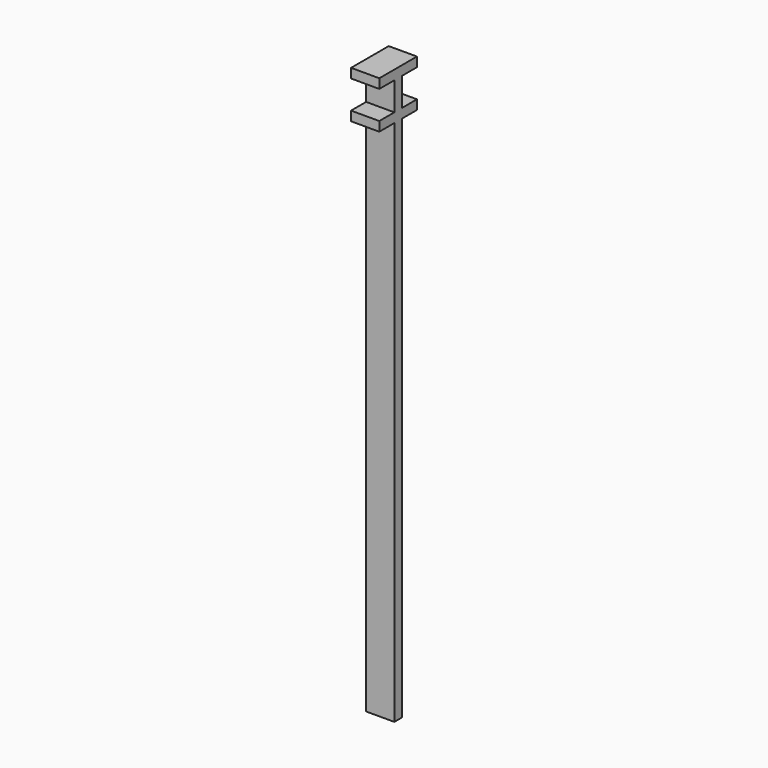
from build123d import *

# Parameters (mm, degrees)
F1_DEPTH = 3


with BuildPart() as f1:
    # F0 (on Right) → F1 (new body)
    with BuildSketch(Plane.YZ):
        Polygon((2.5, 0), (-2.5, 0), (-2.5, -1), (-0.5, -1), (-0.5, -4), (-2.5, -4), (-2.5, -5), (-0.5, -5), (-0.5, -61), (0.5, -61), (0.5, -5), (2.5, -5), (2.5, -4), (0.5, -4), (0.5, -1), (2.5, -1), align=None)
    extrude(amount=F1_DEPTH)


solid = f1.part
